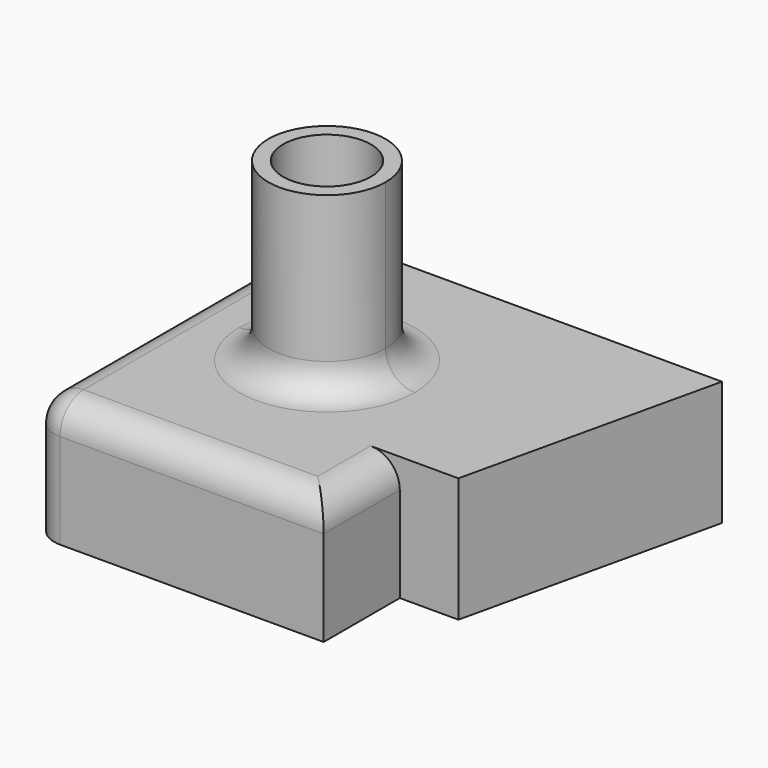
from build123d import *

# Parameters (mm, degrees)
F1_DEPTH = 53.975
F3_DEPTH = 76.2
F4_R     = 19.05
F5_DEPTH = 63.5
F6_R     = 12.7
F7_R     = 12.7


with BuildPart() as f1:
    # F0 (on Top) → F1 (new body)
    with BuildSketch(Plane.XY):
        Polygon((0, 152.4), (0, 0), (127, 0), (127, 41.275), (152.4, 41.275), (177.8, 152.4), align=None)
    extrude(amount=F1_DEPTH)

    # F2 (on face) → F3 (join)
    with BuildSketch(Plane.XY.offset(53.975)):
        with BuildLine():
            Line((63.5, 100.2127209187), (63.5, 106.5627209187))
            ThreePointArc((63.5, 106.5627209187), (45.5394877579, 99.1232331608), (38.1, 81.1627209187))
            Line((38.1, 81.1627209187), (44.45, 81.1627209187))
            ThreePointArc((44.45, 81.1627209187), (50.0296158184, 94.6331051003), (63.5, 100.2127209187))
        make_face()
        with BuildLine():
            ThreePointArc((88.9, 81.1627209187), (81.4605122421, 99.1232331608), (63.5, 106.5627209187))
            Line((63.5, 106.5627209187), (63.5, 100.2127209187))
            ThreePointArc((63.5, 100.2127209187), (76.9703841816, 94.6331051003), (82.55, 81.1627209187))
            ThreePointArc((82.55, 81.1627209187), (63.5, 62.1127209187), (44.45, 81.1627209187))
            Line((44.45, 81.1627209187), (38.1, 81.1627209187))
            ThreePointArc((38.1, 81.1627209187), (63.5, 55.7627209187), (88.9, 81.1627209187))
        make_face()
        with BuildLine():
            ThreePointArc((82.55, 81.1627209187), (76.9703841816, 94.6331051003), (63.5, 100.2127209187))
            Line((63.5, 100.2127209187), (63.5, 81.1627209187))
            Line((63.5, 81.1627209187), (44.45, 81.1627209187))
            ThreePointArc((44.45, 81.1627209187), (63.5, 62.1127209187), (82.55, 81.1627209187))
        make_face()
        with BuildLine():
            Line((63.5, 81.1627209187), (63.5, 100.2127209187))
            ThreePointArc((63.5, 100.2127209187), (50.0296158184, 94.6331051003), (44.45, 81.1627209187))
            Line((44.45, 81.1627209187), (63.5, 81.1627209187))
        make_face()
    extrude(amount=F3_DEPTH)

    # F4 (on face) → F5 (cut)
    with BuildSketch(Plane.XY.offset(130.175)):
        with Locations((63.5, 81.1627209187)):
            Circle(F4_R)
    extrude(amount=-F5_DEPTH, mode=Mode.SUBTRACT)

    # F6
    f6_edges = [f1.edges().sort_by_distance(p)[0] for p in [
        (88.9, 81.162721, 53.975),
        (127, 20.6375, 53.975),
        (63.5, 0, 53.975),
    ]]
    fillet(f6_edges, radius=F6_R)

    # F7
    f7_edges = [f1.edges().sort_by_distance(p)[0] for p in [
        (0, 82.55, 53.975),
    ]]
    fillet(f7_edges, radius=F7_R)


solid = f1.part
